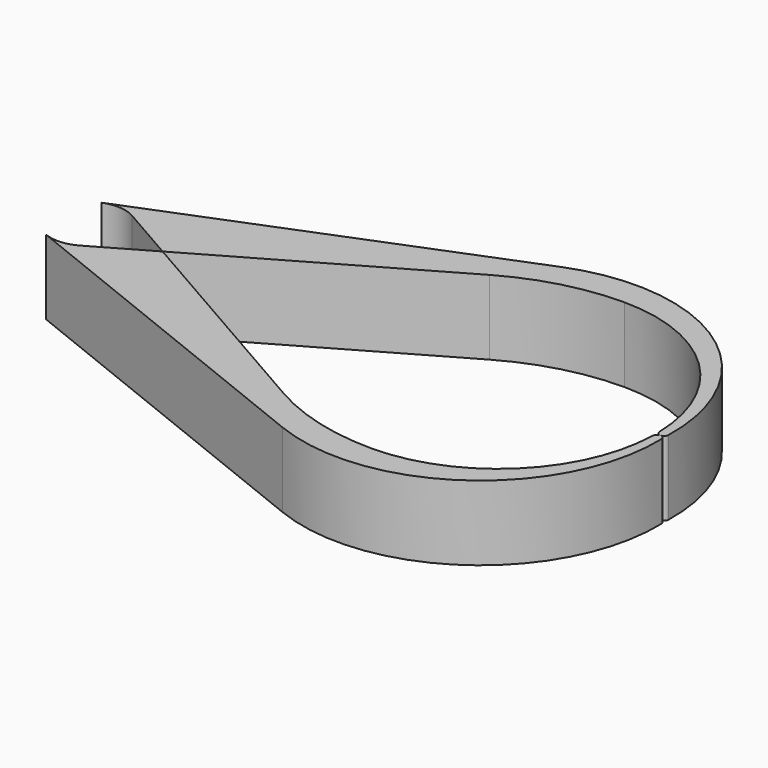
from build123d import *

# Parameters (mm, degrees)
F1_DEPTH = 25.4


with BuildPart() as f1:
    # F0 (on Top) → F1 (new body)
    with BuildSketch(Plane.XY):
        with BuildLine():
            ThreePointArc((-4.718497, 11.790919), (0.889164, 12.668835), (6.31922, 11.016236))
            Line((6.31922, 11.016236), (25.523718, 0))
            Line((25.523718, 0), (101.784677, 43.745415))
            ThreePointArc((101.784677, 43.745415), (120.080915, 51.27905), (139.7, 53.848))
            ThreePointArc((139.7, 53.848), (177.248644, 38.596715), (193.527601, 1.482055))
            ThreePointArc((193.527601, 1.482055), (193.988326, 0.43164), (195.051024, 0))
            ThreePointArc((195.051024, 0), (196.113721, 0.43164), (196.574446, 1.482055))
            ThreePointArc((196.574446, 1.482055), (170.675567, 52.665815), (113.682684, 59.172777))
            Line((113.682684, 59.172777), (-4.718497, 11.790919))
        make_face()
        with BuildLine():
            Line((25.523718, 0), (6.31922, -11.016236))
            ThreePointArc((6.31922, -11.016236), (0.889164, -12.668835), (-4.718497, -11.790919))
            Line((-4.718497, -11.790919), (113.682684, -59.172777))
            ThreePointArc((113.682684, -59.172777), (170.675567, -52.665815), (196.574446, -1.482055))
            ThreePointArc((196.574446, -1.482055), (196.113721, -0.43164), (195.051024, 0))
            ThreePointArc((195.051024, 0), (193.988326, -0.43164), (193.527601, -1.482055))
            ThreePointArc((193.527601, -1.482055), (177.248644, -38.596715), (139.7, -53.848))
            ThreePointArc((139.7, -53.848), (120.080915, -51.27905), (101.784677, -43.745415))
            Line((101.784677, -43.745415), (25.523718, 0))
        make_face()
    extrude(amount=F1_DEPTH)


solid = f1.part
